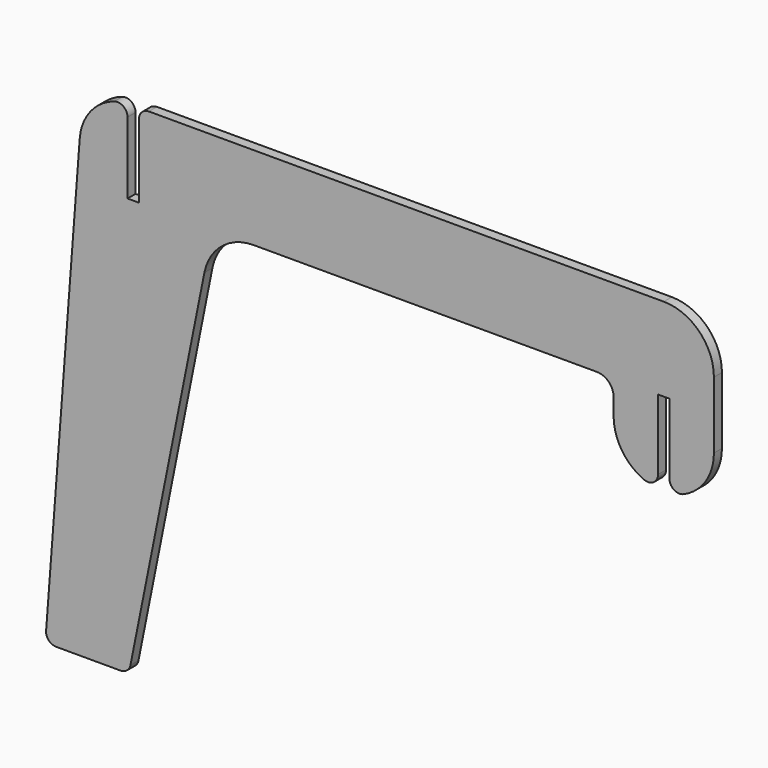
from build123d import *

# Parameters (mm, degrees)
F1_DEPTH = 3


with BuildPart() as f1:
    # F0 (on Front) → F1 (new body)
    with BuildSketch(Plane.XZ):
        with BuildLine():
            ThreePointArc((-99.755909, -71.773679), (-98.964341, -74.039735), (-96.764458, -75))
            Line((-96.764458, -75), (-77.459412, -75))
            ThreePointArc((-77.459412, -75), (-75.557445, -74.320026), (-74.51767, -72.588348))
            Line((-74.51767, -72.588348), (-52.411652, 37.941742))
            ThreePointArc((-52.411652, 37.941742), (-47.212775, 46.600132), (-37.702941, 50))
            Line((-37.702941, 50), (65, 50))
            ThreePointArc((65, 50), (68.535534, 48.535534), (70, 45))
            Line((70, 45), (70, 40))
            ThreePointArc((70, 40), (72.487506, 31.727304), (79.125, 26.198392))
            ThreePointArc((79.125, 26.198392), (81.954539, 26.456215), (83.3, 28.958714))
            Line((83.3, 28.958714), (83.3, 50))
            Line((83.3, 50), (86.7, 50))
            Line((86.7, 50), (86.7, 28.958714))
            ThreePointArc((86.7, 28.958714), (88.045461, 26.456215), (90.875, 26.198392))
            ThreePointArc((90.875, 26.198392), (97.512494, 31.727304), (100, 40))
            Line((100, 40), (100, 50))
            Line((100, 50), (100, 60))
            ThreePointArc((100, 60), (95.606602, 70.606602), (85, 75))
            Line((85, 75), (-69.00419, 75))
            ThreePointArc((-69.00419, 75), (-71.12551, 74.12132), (-72.00419, 72))
            Line((-72.00419, 72), (-72.00419, 50))
            Line((-72.00419, 50), (-75.40419, 50))
            Line((-75.40419, 50), (-75.40419, 71.428027))
            ThreePointArc((-75.40419, 71.428027), (-76.635782, 73.8514), (-79.319347, 74.285034))
            ThreePointArc((-79.319347, 74.285034), (-86.518028, 69.293112), (-89.700815, 61.131607))
            Line((-89.700815, 61.131607), (-99.755909, -71.773679))
        make_face()
    extrude(amount=-F1_DEPTH)


solid = f1.part
